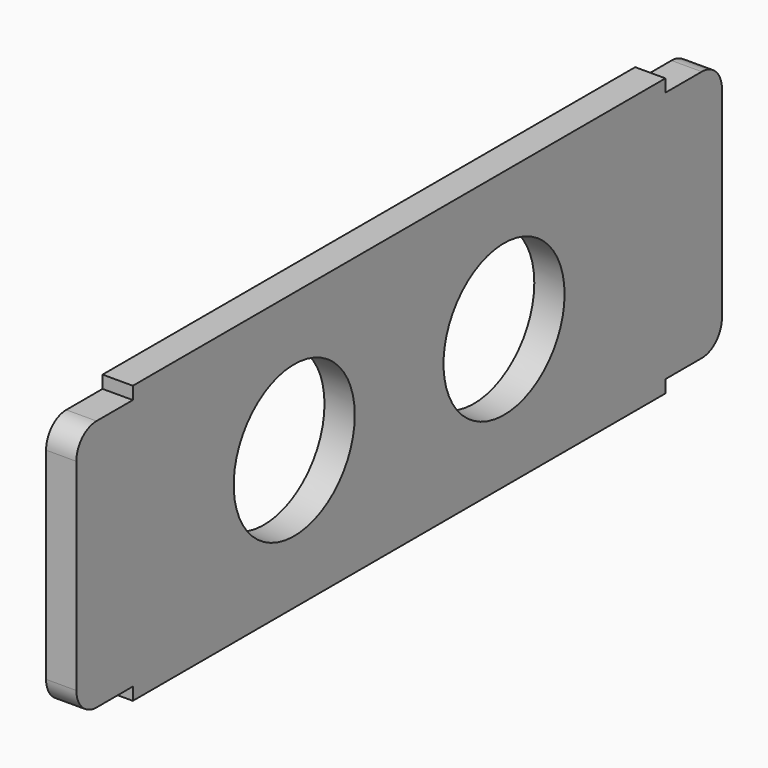
from build123d import *

# Parameters (mm, degrees)
F0_R     = 15
F0_W     = 14
F0_H     = 50
F1_DEPTH = 6
F2_R     = 5


with BuildPart() as f1:
    # F0 (on Right) → F1 (new body)
    with BuildSketch(Plane.YZ):
        Polygon((132, 55), (0, 55), (0, 52.5), (0, 2.5), (0, 0), (132, 0), (132, 2.5), (132, 52.5), align=None)
        with Locations((40, 27.5)):
            Circle(F0_R, mode=Mode.SUBTRACT)
        with Locations((92, 27.5)):
            Circle(F0_R, mode=Mode.SUBTRACT)
        with Locations((-7, 27.5)):
            Rectangle(F0_W, F0_H)
        with Locations((139, 27.5)):
            Rectangle(F0_W, F0_H)
    extrude(amount=F1_DEPTH)

    # F2
    f2_edges = [f1.edges().sort_by_distance(p)[0] for p in [
        (3, -14, 2.5),
        (3, -14, 52.5),
        (3, 146, 52.5),
        (3, 146, 2.5),
    ]]
    fillet(f2_edges, radius=F2_R)


solid = f1.part
